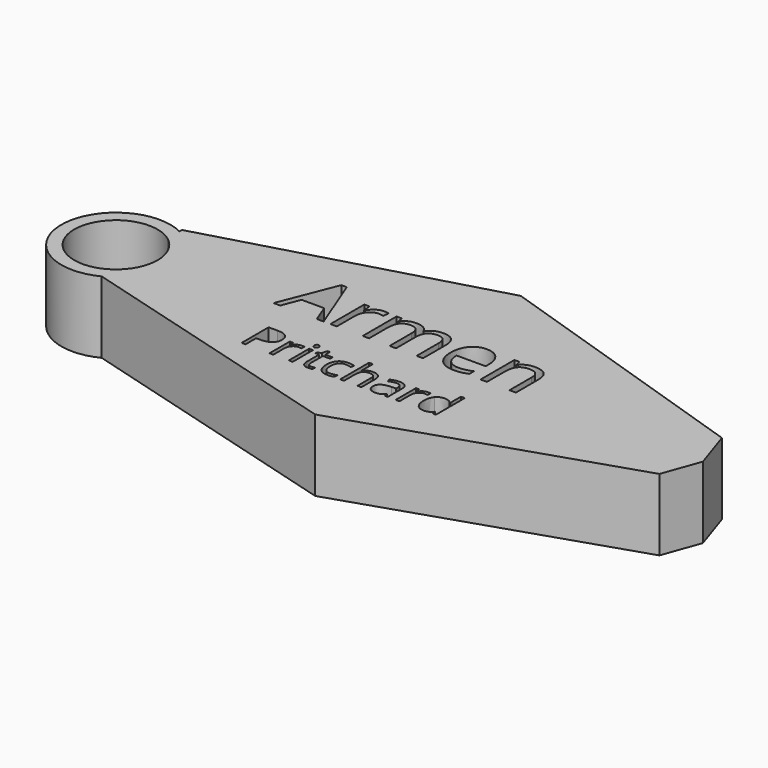
from build123d import *

# Parameters (mm, degrees)
F0_W     = 0.6807281067
F0_H     = 4.4922808583
F1_DEPTH = 12.7


with BuildPart() as f1:
    # F0 (on Top) → F1 (new body)
    with BuildSketch(Plane.XY):
        with BuildLine():
            Line((48.2716604909, 7.1976875883), (0, 23.0244621634))
            Line((0, 23.0244621634), (-48.8772718928, 9.1806082088))
            Line((-48.8772718928, 9.1806082088), (-48.8772718928, 8.6091442517))
            ThreePointArc((-48.8772718928, 8.6091442517), (-45.0178807423, 5.0513498728), (-43.5907628929, 0))
            ThreePointArc((-43.5907628929, 0), (-45.0178807423, -5.0513498728), (-48.8772718928, -8.6091442517))
            Line((-48.8772718928, -8.6091442517), (0, -22.4529982063))
            Line((0, -22.4529982063), (48.2716604909, -6.6262236312))
            Line((48.2716604909, -6.6262236312), (50.6538115442, 0))
            Line((50.6538115442, 0), (48.2716604909, 7.1976875883))
        make_face()
        with BuildLine():
            add(Edge.make_bspline(
                [(-15.111116229, -7.7509888822), (-14.7582918346, -7.5129307871), (-14.3359518532, -7.5129307871)],
                knots=[0, 0, 0, 1, 1, 1], degree=2))
            add(Edge.make_bspline(
                [(-14.3359518532, -7.5129307871), (-14.0369036676, -7.5129307871), (-13.7995013799, -7.5627721514)],
                knots=[0, 0, 0, 1, 1, 1], degree=2))
            Line((-13.7995013799, -7.5627721514), (-13.893937649, -8.1936588938))
            add(Edge.make_bspline(
                [(-13.893937649, -8.1936588938), (-14.171999997, -8.1320129959), (-14.3857932174, -8.1320129959)],
                knots=[0, 0, 0, 1, 1, 1], degree=2))
            add(Edge.make_bspline(
                [(-14.3857932174, -8.1320129959), (-14.9314249947, -8.1320129959), (-15.3183513751, -8.5746830075)],
                knots=[0, 0, 0, 1, 1, 1], degree=2))
            add(Edge.make_bspline(
                [(-15.3183513751, -8.5746830075), (-15.7052777556, -9.0173530191), (-15.7052777556, -9.6770952882)],
                knots=[0, 0, 0, 1, 1, 1], degree=2))
            Line((-15.7052777556, -9.6770952882), (-15.7052777556, -12.0878433809))
            Line((-15.7052777556, -12.0878433809), (-16.3860058623, -12.0878433809))
            Line((-16.3860058623, -12.0878433809), (-16.3860058623, -7.5955625226))
            Line((-16.3860058623, -7.5955625226), (-15.8246347069, -7.5955625226))
            Line((-15.8246347069, -7.5955625226), (-15.745937816, -8.427126337))
            Line((-15.745937816, -8.427126337), (-15.7131474447, -8.427126337))
            add(Edge.make_bspline(
                [(-15.7131474447, -8.427126337), (-15.4639406234, -7.9890469773), (-15.111116229, -7.7509888822)],
                knots=[0, 0, 0, 1, 1, 1], degree=2))
        make_face(mode=Mode.SUBTRACT)
        with BuildLine():
            add(Edge.make_bspline(
                [(-19.7830883216, -6.0950751352), (-17.5376036999, -6.0950751352), (-17.5376036999, -7.8408344994)],
                knots=[0, 0, 0, 1, 1, 1], degree=2))
            add(Edge.make_bspline(
                [(-17.5376036999, -7.8408344994), (-17.5376036999, -8.7510952047), (-18.1586533309, -9.2409833508)],
                knots=[0, 0, 0, 1, 1, 1], degree=2))
            add(Edge.make_bspline(
                [(-18.1586533309, -9.2409833508), (-18.779702962, -9.730871497), (-19.9352356441, -9.730871497)],
                knots=[0, 0, 0, 1, 1, 1], degree=2))
            Line((-19.9352356441, -9.730871497), (-20.6408844329, -9.730871497))
            Line((-20.6408844329, -9.730871497), (-20.6408844329, -12.0878433809))
            Line((-20.6408844329, -12.0878433809), (-21.3373519178, -12.0878433809))
            Line((-21.3373519178, -12.0878433809), (-21.3373519178, -6.0950751352))
            Line((-21.3373519178, -6.0950751352), (-19.7830883216, -6.0950751352))
        make_face(mode=Mode.SUBTRACT)
        with Locations((-12.6183922082, -9.8417029517)):
            Rectangle(F0_W, F0_H, mode=Mode.SUBTRACT)
        with BuildLine():
            add(Edge.make_bspline(
                [(-4.9421663037, -11.9356960584), (-5.392050197, -12.1704751164), (-6.0767131482, -12.1704751164)],
                knots=[0, 0, 0, 1, 1, 1], degree=2))
            add(Edge.make_bspline(
                [(-6.0767131482, -12.1704751164), (-7.052554596, -12.1704751164), (-7.5876934544, -11.5697555155)],
                knots=[0, 0, 0, 1, 1, 1], degree=2))
            add(Edge.make_bspline(
                [(-7.5876934544, -11.5697555155), (-8.1228323128, -10.9690359146), (-8.1228323128, -9.869902671)],
                knots=[0, 0, 0, 1, 1, 1], degree=2))
            add(Edge.make_bspline(
                [(-8.1228323128, -9.869902671), (-8.1228323128, -8.7432255156), (-7.5791679579, -8.1280781514)],
                knots=[0, 0, 0, 1, 1, 1], degree=2))
            add(Edge.make_bspline(
                [(-7.5791679579, -8.1280781514), (-7.0355036029, -7.5129307871), (-6.0321182433, -7.5129307871)],
                knots=[0, 0, 0, 1, 1, 1], degree=2))
            add(Edge.make_bspline(
                [(-6.0321182433, -7.5129307871), (-5.7081493756, -7.5129307871), (-5.3841805079, -7.5831021815)],
                knots=[0, 0, 0, 1, 1, 1], degree=2))
            add(Edge.make_bspline(
                [(-5.3841805079, -7.5831021815), (-5.0602116401, -7.653273576), (-4.8765855613, -7.7477098451)],
                knots=[0, 0, 0, 1, 1, 1], degree=2))
            Line((-4.8765855613, -7.7477098451), (-5.0851323223, -8.3248203787))
            add(Edge.make_bspline(
                [(-5.0851323223, -8.3248203787), (-5.3107300763, -8.2343189541), (-5.5769878907, -8.1752962859)],
                knots=[0, 0, 0, 1, 1, 1], degree=2))
            add(Edge.make_bspline(
                [(-5.5769878907, -8.1752962859), (-5.8432457051, -8.1162736177), (-6.0478576215, -8.1162736177)],
                knots=[0, 0, 0, 1, 1, 1], degree=2))
            add(Edge.make_bspline(
                [(-6.0478576215, -8.1162736177), (-7.417183524, -8.1162736177), (-7.417183524, -9.8620329819)],
                knots=[0, 0, 0, 1, 1, 1], degree=2))
            add(Edge.make_bspline(
                [(-7.417183524, -9.8620329819), (-7.417183524, -10.6896619517), (-7.0833775449, -11.1323319633)],
                knots=[0, 0, 0, 1, 1, 1], degree=2))
            add(Edge.make_bspline(
                [(-7.0833775449, -11.1323319633), (-6.7495715658, -11.5750019749), (-6.0937641412, -11.5750019749)],
                knots=[0, 0, 0, 1, 1, 1], degree=2))
            add(Edge.make_bspline(
                [(-6.0937641412, -11.5750019749), (-5.5323929858, -11.5750019749), (-4.9421663037, -11.3336648426)],
                knots=[0, 0, 0, 1, 1, 1], degree=2))
            Line((-4.9421663037, -11.3336648426), (-4.9421663037, -11.9356960584))
        make_face(mode=Mode.SUBTRACT)
        with BuildLine():
            add(Edge.make_bspline(
                [(-9.9131865819, -11.3907200886), (-9.7203791991, -11.6077923461), (-9.3846057977, -11.6077923461)],
                knots=[0, 0, 0, 1, 1, 1], degree=2))
            add(Edge.make_bspline(
                [(-9.3846057977, -11.6077923461), (-9.2036029485, -11.6077923461), (-9.0357162478, -11.5815600491)],
                knots=[0, 0, 0, 1, 1, 1], degree=2))
            add(Edge.make_bspline(
                [(-9.0357162478, -11.5815600491), (-8.8678295471, -11.5553277521), (-8.7694584335, -11.5264722254)],
                knots=[0, 0, 0, 1, 1, 1], degree=2))
            Line((-8.7694584335, -11.5264722254), (-8.7694584335, -12.0471833205))
            add(Edge.make_bspline(
                [(-8.7694584335, -12.0471833205), (-8.8796340808, -12.0996479145), (-9.094738916, -12.1350615154)],
                knots=[0, 0, 0, 1, 1, 1], degree=2))
            add(Edge.make_bspline(
                [(-9.094738916, -12.1350615154), (-9.3098437513, -12.1704751164), (-9.4829769114, -12.1704751164)],
                knots=[0, 0, 0, 1, 1, 1], degree=2))
            add(Edge.make_bspline(
                [(-9.4829769114, -12.1704751164), (-10.7854104566, -12.1704751164), (-10.7854104566, -10.7972143693)],
                knots=[0, 0, 0, 1, 1, 1], degree=2))
            Line((-10.7854104566, -10.7972143693), (-10.7854104566, -8.1241433068))
            Line((-10.7854104566, -8.1241433068), (-11.4294133475, -8.1241433068))
            Line((-11.4294133475, -8.1241433068), (-11.4294133475, -7.7962395945))
            Line((-11.4294133475, -7.7962395945), (-10.7854104566, -7.5129307871))
            Line((-10.7854104566, -7.5129307871), (-10.4994784195, -6.5541403324))
            Line((-10.4994784195, -6.5541403324), (-10.1059939647, -6.5541403324))
            Line((-10.1059939647, -6.5541403324), (-10.1059939647, -7.5955625226))
            Line((-10.1059939647, -7.5955625226), (-8.8022488047, -7.5955625226))
            Line((-8.8022488047, -7.5955625226), (-8.8022488047, -8.1241433068))
            Line((-8.8022488047, -8.1241433068), (-10.1059939647, -8.1241433068))
            Line((-10.1059939647, -8.1241433068), (-10.1059939647, -10.7683588426))
            add(Edge.make_bspline(
                [(-10.1059939647, -10.7683588426), (-10.1059939647, -11.173647831), (-9.9131865819, -11.3907200886)],
                knots=[0, 0, 0, 1, 1, 1], degree=2))
        make_face(mode=Mode.SUBTRACT)
        with BuildLine():
            add(Edge.make_bspline(
                [(-12.9017010156, -6.7207154182), (-13.0164673149, -6.6079165412), (-13.0164673149, -6.3783839426)],
                knots=[0, 0, 0, 1, 1, 1], degree=2))
            add(Edge.make_bspline(
                [(-13.0164673149, -6.3783839426), (-13.0164673149, -6.1449164995), (-12.9017010156, -6.036052467)],
                knots=[0, 0, 0, 1, 1, 1], degree=2))
            add(Edge.make_bspline(
                [(-12.9017010156, -6.036052467), (-12.7869347163, -5.9271884345), (-12.6138015562, -5.9271884345)],
                knots=[0, 0, 0, 1, 1, 1], degree=2))
            add(Edge.make_bspline(
                [(-12.6138015562, -5.9271884345), (-12.4498497001, -5.9271884345), (-12.3311485563, -6.0380198893)],
                knots=[0, 0, 0, 1, 1, 1], degree=2))
            add(Edge.make_bspline(
                [(-12.3311485563, -6.0380198893), (-12.2124474124, -6.148851344), (-12.2124474124, -6.3783839426)],
                knots=[0, 0, 0, 1, 1, 1], degree=2))
            add(Edge.make_bspline(
                [(-12.2124474124, -6.3783839426), (-12.2124474124, -6.6079165412), (-12.3311485563, -6.7207154182)],
                knots=[0, 0, 0, 1, 1, 1], degree=2))
            add(Edge.make_bspline(
                [(-12.3311485563, -6.7207154182), (-12.4498497001, -6.8335142953), (-12.6138015562, -6.8335142953)],
                knots=[0, 0, 0, 1, 1, 1], degree=2))
            add(Edge.make_bspline(
                [(-12.6138015562, -6.8335142953), (-12.7869347163, -6.8335142953), (-12.9017010156, -6.7207154182)],
                knots=[0, 0, 0, 1, 1, 1], degree=2))
        make_face(mode=Mode.SUBTRACT)
        with BuildLine():
            Line((-0.1206701183, -12.0878433809), (-0.801398225, -12.0878433809))
            Line((-0.801398225, -12.0878433809), (-0.801398225, -9.1813048752))
            add(Edge.make_bspline(
                [(-0.801398225, -9.1813048752), (-0.801398225, -8.6330498683), (-1.0512608538, -8.3622014019)],
                knots=[0, 0, 0, 1, 1, 1], degree=2))
            add(Edge.make_bspline(
                [(-1.0512608538, -8.3622014019), (-1.3011234825, -8.0913529356), (-1.8349507261, -8.0913529356)],
                knots=[0, 0, 0, 1, 1, 1], degree=2))
            add(Edge.make_bspline(
                [(-1.8349507261, -8.0913529356), (-2.5432227447, -8.0913529356), (-2.8691590347, -8.4769677012)],
                knots=[0, 0, 0, 1, 1, 1], degree=2))
            add(Edge.make_bspline(
                [(-2.8691590347, -8.4769677012), (-3.1950953247, -8.8625824669), (-3.1950953247, -9.7387411861)],
                knots=[0, 0, 0, 1, 1, 1], degree=2))
            Line((-3.1950953247, -9.7387411861), (-3.1950953247, -12.0878433809))
            Line((-3.1950953247, -12.0878433809), (-3.8758234314, -12.0878433809))
            Line((-3.8758234314, -12.0878433809), (-3.8758234314, -5.7094603696))
            Line((-3.8758234314, -5.7094603696), (-3.1950953247, -5.7094603696))
            Line((-3.1950953247, -5.7094603696), (-3.1950953247, -7.6401574275))
            add(Edge.make_bspline(
                [(-3.1950953247, -7.6401574275), (-3.1950953247, -7.9890469773), (-3.2278856959, -8.2185795759)],
                knots=[0, 0, 0, 1, 1, 1], degree=2))
            Line((-3.2278856959, -8.2185795759), (-3.1872256356, -8.2185795759))
            add(Edge.make_bspline(
                [(-3.1872256356, -8.2185795759), (-2.9865485637, -7.8946107082), (-2.6153615614, -7.7083613996)],
                knots=[0, 0, 0, 1, 1, 1], degree=2))
            add(Edge.make_bspline(
                [(-2.6153615614, -7.7083613996), (-2.2441745591, -7.5221120911), (-1.7693699837, -7.5221120911)],
                knots=[0, 0, 0, 1, 1, 1], degree=2))
            add(Edge.make_bspline(
                [(-1.7693699837, -7.5221120911), (-0.9456758584, -7.5221120911), (-0.5331729884, -7.9136291235)],
                knots=[0, 0, 0, 1, 1, 1], degree=2))
            add(Edge.make_bspline(
                [(-0.5331729884, -7.9136291235), (-0.1206701183, -8.305146156), (-0.1206701183, -9.1576958079)],
                knots=[0, 0, 0, 1, 1, 1], degree=2))
            Line((-0.1206701183, -9.1576958079), (-0.1206701183, -12.0878433809))
        make_face(mode=Mode.SUBTRACT)
        with BuildLine():
            Line((4.5434322852, -12.0878433809), (4.0384605683, -12.0878433809))
            Line((4.0384605683, -12.0878433809), (3.9033642388, -11.4477753345))
            Line((3.9033642388, -11.4477753345), (3.8705738676, -11.4477753345))
            add(Edge.make_bspline(
                [(3.8705738676, -11.4477753345), (3.5348004662, -11.8701153159), (3.2009944871, -12.0202952161)],
                knots=[0, 0, 0, 1, 1, 1], degree=2))
            add(Edge.make_bspline(
                [(3.2009944871, -12.0202952161), (2.867188508, -12.1704751164), (2.3661516356, -12.1704751164)],
                knots=[0, 0, 0, 1, 1, 1], degree=2))
            add(Edge.make_bspline(
                [(2.3661516356, -12.1704751164), (1.6985396774, -12.1704751164), (1.319482986, -11.825520411)],
                knots=[0, 0, 0, 1, 1, 1], degree=2))
            add(Edge.make_bspline(
                [(1.319482986, -11.825520411), (0.9404262946, -11.4805657057), (0.9404262946, -10.8457441187)],
                knots=[0, 0, 0, 1, 1, 1], degree=2))
            add(Edge.make_bspline(
                [(0.9404262946, -10.8457441187), (0.9404262946, -9.4855995202), (3.1163953293, -9.4200187777)],
                knots=[0, 0, 0, 1, 1, 1], degree=2))
            Line((3.1163953293, -9.4200187777), (3.8784435567, -9.3950980956))
            Line((3.8784435567, -9.3950980956), (3.8784435567, -9.1157241327))
            add(Edge.make_bspline(
                [(3.8784435567, -9.1157241327), (3.8784435567, -8.5871433486), (3.6515341878, -8.3353132975)],
                knots=[0, 0, 0, 1, 1, 1], degree=2))
            add(Edge.make_bspline(
                [(3.6515341878, -8.3353132975), (3.4246248189, -8.0834832465), (2.9235879465, -8.0834832465)],
                knots=[0, 0, 0, 1, 1, 1], degree=2))
            add(Edge.make_bspline(
                [(2.9235879465, -8.0834832465), (2.3622167911, -8.0834832465), (1.6539447725, -8.427126337)],
                knots=[0, 0, 0, 1, 1, 1], degree=2))
            Line((1.6539447725, -8.427126337), (1.4440863967, -7.9064152419))
            add(Edge.make_bspline(
                [(1.4440863967, -7.9064152419), (1.7759249535, -7.7267240075), (2.1713768305, -7.6244180493)],
                knots=[0, 0, 0, 1, 1, 1], degree=2))
            add(Edge.make_bspline(
                [(2.1713768305, -7.6244180493), (2.5668287075, -7.5221120911), (2.9655596217, -7.5221120911)],
                knots=[0, 0, 0, 1, 1, 1], degree=2))
            add(Edge.make_bspline(
                [(2.9655596217, -7.5221120911), (3.7682679093, -7.5221120911), (4.1558500973, -7.8782155226)],
                knots=[0, 0, 0, 1, 1, 1], degree=2))
            add(Edge.make_bspline(
                [(4.1558500973, -7.8782155226), (4.5434322852, -8.2343189541), (4.5434322852, -9.0212878636)],
                knots=[0, 0, 0, 1, 1, 1], degree=2))
            Line((4.5434322852, -9.0212878636), (4.5434322852, -12.0878433809))
        make_face(mode=Mode.SUBTRACT)
        with BuildLine():
            add(Edge.make_bspline(
                [(7.2191265774, -7.7509888822), (7.5719509718, -7.5129307871), (7.9942909532, -7.5129307871)],
                knots=[0, 0, 0, 1, 1, 1], degree=2))
            add(Edge.make_bspline(
                [(7.9942909532, -7.5129307871), (8.2933391388, -7.5129307871), (8.5307414265, -7.5627721514)],
                knots=[0, 0, 0, 1, 1, 1], degree=2))
            Line((8.5307414265, -7.5627721514), (8.4363051574, -8.1936588938))
            add(Edge.make_bspline(
                [(8.4363051574, -8.1936588938), (8.1582428094, -8.1320129959), (7.944449589, -8.1320129959)],
                knots=[0, 0, 0, 1, 1, 1], degree=2))
            add(Edge.make_bspline(
                [(7.944449589, -8.1320129959), (7.3988178117, -8.1320129959), (7.0118914312, -8.5746830075)],
                knots=[0, 0, 0, 1, 1, 1], degree=2))
            add(Edge.make_bspline(
                [(7.0118914312, -8.5746830075), (6.6249650507, -9.0173530191), (6.6249650507, -9.6770952882)],
                knots=[0, 0, 0, 1, 1, 1], degree=2))
            Line((6.6249650507, -9.6770952882), (6.6249650507, -12.0878433809))
            Line((6.6249650507, -12.0878433809), (5.944236944, -12.0878433809))
            Line((5.944236944, -12.0878433809), (5.944236944, -7.5955625226))
            Line((5.944236944, -7.5955625226), (6.5056080995, -7.5955625226))
            Line((6.5056080995, -7.5955625226), (6.5843049904, -8.427126337))
            Line((6.5843049904, -8.427126337), (6.6170953616, -8.427126337))
            add(Edge.make_bspline(
                [(6.6170953616, -8.427126337), (6.866302183, -7.9890469773), (7.2191265774, -7.7509888822)],
                knots=[0, 0, 0, 1, 1, 1], degree=2))
        make_face(mode=Mode.SUBTRACT)
        with BuildLine():
            Line((12.5193621827, -12.0878433809), (12.4288607581, -11.4858121651))
            Line((12.4288607581, -11.4858121651), (12.3921355423, -11.4858121651))
            add(Edge.make_bspline(
                [(12.3921355423, -11.4858121651), (11.9212658115, -12.1704751164), (10.9821495795, -12.1704751164)],
                knots=[0, 0, 0, 1, 1, 1], degree=2))
            add(Edge.make_bspline(
                [(10.9821495795, -12.1704751164), (10.1007444009, -12.1704751164), (9.6108562548, -11.5677880932)],
                knots=[0, 0, 0, 1, 1, 1], degree=2))
            add(Edge.make_bspline(
                [(9.6108562548, -11.5677880932), (9.1209681086, -10.96510107), (9.1209681086, -9.8541632928)],
                knots=[0, 0, 0, 1, 1, 1], degree=2))
            add(Edge.make_bspline(
                [(9.1209681086, -9.8541632928), (9.1209681086, -8.7432255156), (9.612823677, -8.1280781514)],
                knots=[0, 0, 0, 1, 1, 1], degree=2))
            add(Edge.make_bspline(
                [(9.612823677, -8.1280781514), (10.1046792455, -7.5129307871), (10.9821495795, -7.5129307871)],
                knots=[0, 0, 0, 1, 1, 1], degree=2))
            add(Edge.make_bspline(
                [(10.9821495795, -7.5129307871), (11.8963451294, -7.5129307871), (12.3842658532, -8.1779195156)],
                knots=[0, 0, 0, 1, 1, 1], degree=2))
            Line((12.3842658532, -8.1779195156), (12.4380420621, -8.1779195156))
            Line((12.4380420621, -8.1779195156), (12.4091865354, -7.8539506479))
            Line((12.4091865354, -7.8539506479), (12.3921355423, -7.5378514693))
            Line((12.3921355423, -7.5378514693), (12.3921355423, -5.7094603696))
            Line((12.3921355423, -5.7094603696), (13.072863649, -5.7094603696))
            Line((13.072863649, -5.7094603696), (13.072863649, -12.0878433809))
            Line((13.072863649, -12.0878433809), (12.5193621827, -12.0878433809))
        make_face(mode=Mode.SUBTRACT)
        Polygon((-16.4735111757, 0), (-17.675824528, 0), (-18.9196723416, 3.1762932744), (-22.9222827927, 3.1762932744), (-24.1508284364, 0), (-25.3269094974, 0), (-21.3789496532, 10.0294793827), (-20.4017968014, 10.0294793827), align=None, mode=Mode.SUBTRACT)
        with BuildLine():
            add(Edge.make_bspline(
                [(-13.1463822262, 7.2280892717), (-12.5583416957, 7.624852678), (-11.8544418785, 7.624852678)],
                knots=[0, 0, 0, 1, 1, 1], degree=2))
            add(Edge.make_bspline(
                [(-11.8544418785, 7.624852678), (-11.3560283434, 7.624852678), (-10.9603579492, 7.5417837555)],
                knots=[0, 0, 0, 1, 1, 1], degree=2))
            Line((-10.9603579492, 7.5417837555), (-11.1177516972, 6.4903060783))
            add(Edge.make_bspline(
                [(-11.1177516972, 6.4903060783), (-11.5811888439, 6.5930492193), (-11.937510801, 6.5930492193)],
                knots=[0, 0, 0, 1, 1, 1], degree=2))
            add(Edge.make_bspline(
                [(-11.937510801, 6.5930492193), (-12.8468969003, 6.5930492193), (-13.491774062, 5.8552660258)],
                knots=[0, 0, 0, 1, 1, 1], degree=2))
            add(Edge.make_bspline(
                [(-13.491774062, 5.8552660258), (-14.1366512237, 5.1174828323), (-14.1366512237, 4.017912621)],
                knots=[0, 0, 0, 1, 1, 1], degree=2))
            Line((-14.1366512237, 4.017912621), (-14.1366512237, 0))
            Line((-14.1366512237, 0), (-15.2711978234, 0))
            Line((-15.2711978234, 0), (-15.2711978234, 7.4871331486))
            Line((-15.2711978234, 7.4871331486), (-14.3355794329, 7.4871331486))
            Line((-14.3355794329, 7.4871331486), (-14.2044179762, 6.101193757))
            Line((-14.2044179762, 6.101193757), (-14.1497673693, 6.101193757))
            add(Edge.make_bspline(
                [(-14.1497673693, 6.101193757), (-13.7344227567, 6.8313258655), (-13.1463822262, 7.2280892717)],
                knots=[0, 0, 0, 1, 1, 1], degree=2))
        make_face(mode=Mode.SUBTRACT)
        with BuildLine():
            Line((1.1174261809, 0), (-0.0149343945, 0))
            Line((-0.0149343945, 0), (-0.0149343945, 4.8704620891))
            add(Edge.make_bspline(
                [(-0.0149343945, 4.8704620891), (-0.0149343945, 5.7667320426), (-0.397488643, 6.2137740072)],
                knots=[0, 0, 0, 1, 1, 1], degree=2))
            add(Edge.make_bspline(
                [(-0.397488643, 6.2137740072), (-0.7800428915, 6.6608159719), (-1.5866858497, 6.6608159719)],
                knots=[0, 0, 0, 1, 1, 1], degree=2))
            add(Edge.make_bspline(
                [(-1.5866858497, 6.6608159719), (-2.6447215997, 6.6608159719), (-3.1507862198, 6.0531012229)],
                knots=[0, 0, 0, 1, 1, 1], degree=2))
            add(Edge.make_bspline(
                [(-3.1507862198, 6.0531012229), (-3.6568508399, 5.4453864739), (-3.6568508399, 4.1818644418)],
                knots=[0, 0, 0, 1, 1, 1], degree=2))
            Line((-3.6568508399, 4.1818644418), (-3.6568508399, 0))
            Line((-3.6568508399, 0), (-4.7913974397, 0))
            Line((-4.7913974397, 0), (-4.7913974397, 4.8704620891))
            add(Edge.make_bspline(
                [(-4.7913974397, 4.8704620891), (-4.7913974397, 5.7667320426), (-5.1739516881, 6.2137740072)],
                knots=[0, 0, 0, 1, 1, 1], degree=2))
            add(Edge.make_bspline(
                [(-5.1739516881, 6.2137740072), (-5.5565059366, 6.6608159719), (-6.3697069676, 6.6608159719)],
                knots=[0, 0, 0, 1, 1, 1], degree=2))
            add(Edge.make_bspline(
                [(-6.3697069676, 6.6608159719), (-7.4343007905, 6.6608159719), (-7.9294352892, 6.022496883)],
                knots=[0, 0, 0, 1, 1, 1], degree=2))
            add(Edge.make_bspline(
                [(-7.9294352892, 6.022496883), (-8.424569788, 5.3841777941), (-8.424569788, 3.9282856257)],
                knots=[0, 0, 0, 1, 1, 1], degree=2))
            Line((-8.424569788, 3.9282856257), (-8.424569788, 0))
            Line((-8.424569788, 0), (-9.5591163877, 0))
            Line((-9.5591163877, 0), (-9.5591163877, 7.4871331486))
            Line((-9.5591163877, 7.4871331486), (-8.6366141428, 7.4871331486))
            Line((-8.6366141428, 7.4871331486), (-8.4529881036, 6.4618877627))
            Line((-8.4529881036, 6.4618877627), (-8.3983374967, 6.4618877627))
            add(Edge.make_bspline(
                [(-8.3983374967, 6.4618877627), (-8.0769919279, 7.0083938319), (-7.4922304339, 7.316623255)],
                knots=[0, 0, 0, 1, 1, 1], degree=2))
            add(Edge.make_bspline(
                [(-7.4922304339, 7.316623255), (-6.9074689398, 7.624852678), (-6.1838949041, 7.624852678)],
                knots=[0, 0, 0, 1, 1, 1], degree=2))
            add(Edge.make_bspline(
                [(-6.1838949041, 7.624852678), (-4.4285174097, 7.624852678), (-3.8885694133, 6.3525865488)],
                knots=[0, 0, 0, 1, 1, 1], degree=2))
            Line((-3.8885694133, 6.3525865488), (-3.8339188064, 6.3525865488))
            add(Edge.make_bspline(
                [(-3.8339188064, 6.3525865488), (-3.499457092, 6.9406270793), (-2.8644170395, 7.2827398787)],
                knots=[0, 0, 0, 1, 1, 1], degree=2))
            add(Edge.make_bspline(
                [(-2.8644170395, 7.2827398787), (-2.2293769871, 7.624852678), (-1.4161759561, 7.624852678)],
                knots=[0, 0, 0, 1, 1, 1], degree=2))
            add(Edge.make_bspline(
                [(-1.4161759561, 7.624852678), (-0.1460958512, 7.624852678), (0.4856651649, 6.9723244313)],
                knots=[0, 0, 0, 1, 1, 1], degree=2))
            add(Edge.make_bspline(
                [(0.4856651649, 6.9723244313), (1.1174261809, 6.3197961847), (1.1174261809, 4.8835782347)],
                knots=[0, 0, 0, 1, 1, 1], degree=2))
            Line((1.1174261809, 4.8835782347), (1.1174261809, 0))
        make_face(mode=Mode.SUBTRACT)
        with BuildLine():
            add(Edge.make_bspline(
                [(7.9115896337, -0.024046267), (7.3760136858, -0.1377195294), (6.6174632617, -0.1377195294)],
                knots=[0, 0, 0, 1, 1, 1], degree=2))
            add(Edge.make_bspline(
                [(6.6174632617, -0.1377195294), (4.9582708355, -0.1377195294), (3.9975131658, 0.8744097108)],
                knots=[0, 0, 0, 1, 1, 1], degree=2))
            add(Edge.make_bspline(
                [(3.9975131658, 0.8744097108), (3.0367554961, 1.886538951), (3.0367554961, 3.6812648824)],
                knots=[0, 0, 0, 1, 1, 1], degree=2))
            add(Edge.make_bspline(
                [(3.0367554961, 3.6812648824), (3.0367554961, 5.493479008), (3.9286534011, 6.559165843)],
                knots=[0, 0, 0, 1, 1, 1], degree=2))
            add(Edge.make_bspline(
                [(3.9286534011, 6.559165843), (4.8205513061, 7.624852678), (6.3245360086, 7.624852678)],
                knots=[0, 0, 0, 1, 1, 1], degree=2))
            add(Edge.make_bspline(
                [(6.3245360086, 7.624852678), (7.7301496187, 7.624852678), (8.5499087226, 6.6990713967)],
                knots=[0, 0, 0, 1, 1, 1], degree=2))
            add(Edge.make_bspline(
                [(8.5499087226, 6.6990713967), (9.3696678264, 5.7732901154), (9.3696678264, 4.2561892672)],
                knots=[0, 0, 0, 1, 1, 1], degree=2))
            Line((9.3696678264, 4.2561892672), (9.3696678264, 3.5391733044))
            Line((9.3696678264, 3.5391733044), (4.2128365571, 3.5391733044))
            add(Edge.make_bspline(
                [(4.2128365571, 3.5391733044), (4.2478129455, 2.2210006654), (4.8795739616, 1.5378680788)],
                knots=[0, 0, 0, 1, 1, 1], degree=2))
            add(Edge.make_bspline(
                [(4.8795739616, 1.5378680788), (5.5113349776, 0.8547354923), (6.658997723, 0.8547354923)],
                knots=[0, 0, 0, 1, 1, 1], degree=2))
            add(Edge.make_bspline(
                [(6.658997723, 0.8547354923), (7.8678691482, 0.8547354923), (9.0483222577, 1.3597071003)],
                knots=[0, 0, 0, 1, 1, 1], degree=2))
            Line((9.0483222577, 1.3597071003), (9.0483222577, 0.34757786))
            add(Edge.make_bspline(
                [(9.0483222577, 0.34757786), (8.4471655816, 0.0896269954), (7.9115896337, -0.024046267)],
                knots=[0, 0, 0, 1, 1, 1], degree=2))
        make_face(mode=Mode.SUBTRACT)
        with BuildLine():
            Line((17.5628868164, 0), (16.4283402167, 0))
            Line((16.4283402167, 0), (16.4283402167, 4.8442297977))
            add(Edge.make_bspline(
                [(16.4283402167, 4.8442297977), (16.4283402167, 5.7579879455), (16.011902592, 6.2094019587)],
                knots=[0, 0, 0, 1, 1, 1], degree=2))
            add(Edge.make_bspline(
                [(16.011902592, 6.2094019587), (15.5954649672, 6.6608159719), (14.7057530865, 6.6608159719)],
                knots=[0, 0, 0, 1, 1, 1], degree=2))
            add(Edge.make_bspline(
                [(14.7057530865, 6.6608159719), (13.5318580497, 6.6608159719), (12.9853519805, 6.0257759194)],
                knots=[0, 0, 0, 1, 1, 1], degree=2))
            add(Edge.make_bspline(
                [(12.9853519805, 6.0257759194), (12.4388459113, 5.390735867), (12.4388459113, 3.9282856257)],
                knots=[0, 0, 0, 1, 1, 1], degree=2))
            Line((12.4388459113, 3.9282856257), (12.4388459113, 0))
            Line((12.4388459113, 0), (11.3042993115, 0))
            Line((11.3042993115, 0), (11.3042993115, 7.4871331486))
            Line((11.3042993115, 7.4871331486), (12.2268015564, 7.4871331486))
            Line((12.2268015564, 7.4871331486), (12.4104275957, 6.4618877627))
            Line((12.4104275957, 6.4618877627), (12.4650782026, 6.4618877627))
            add(Edge.make_bspline(
                [(12.4650782026, 6.4618877627), (12.8148420869, 7.0149519047), (13.4433240665, 7.3199022914)],
                knots=[0, 0, 0, 1, 1, 1], degree=2))
            add(Edge.make_bspline(
                [(13.4433240665, 7.3199022914), (14.0718060462, 7.624852678), (14.8434726159, 7.624852678)],
                knots=[0, 0, 0, 1, 1, 1], degree=2))
            add(Edge.make_bspline(
                [(14.8434726159, 7.624852678), (16.1966216434, 7.624852678), (16.8797542299, 6.9723244313)],
                knots=[0, 0, 0, 1, 1, 1], degree=2))
            add(Edge.make_bspline(
                [(16.8797542299, 6.9723244313), (17.5628868164, 6.3197961847), (17.5628868164, 4.8835782347)],
                knots=[0, 0, 0, 1, 1, 1], degree=2))
            Line((17.5628868164, 4.8835782347), (17.5628868164, 0))
        make_face(mode=Mode.SUBTRACT)
        with BuildLine():
            Line((-48.8772718928, 5.9457386941), (-48.8772718928, 8.6091442517))
            ThreePointArc((-48.8772718928, 8.6091442517), (-62.8973680938, 0), (-48.8772718928, -8.6091442517))
            Line((-48.8772718928, -8.6091442517), (-48.8772718928, -5.9457386941))
            ThreePointArc((-48.8772718928, -5.9457386941), (-60.6211038536, 0), (-48.8772718928, 5.9457386941))
        make_face()
        with BuildLine():
            ThreePointArc((-43.5907628929, 0), (-45.0178807423, 5.0513498728), (-48.8772718928, 8.6091442517))
            Line((-48.8772718928, 8.6091442517), (-48.8772718928, 5.9457386941))
            ThreePointArc((-48.8772718928, 5.9457386941), (-46.6624737834, 3.332168293), (-45.8670271331, 0))
            ThreePointArc((-45.8670271331, 0), (-46.6624737834, -3.332168293), (-48.8772718928, -5.9457386941))
            Line((-48.8772718928, -5.9457386941), (-48.8772718928, -8.6091442517))
            ThreePointArc((-48.8772718928, -8.6091442517), (-45.0178807423, -5.0513498728), (-43.5907628929, 0))
        make_face()
    extrude(amount=F1_DEPTH)


solid = f1.part
